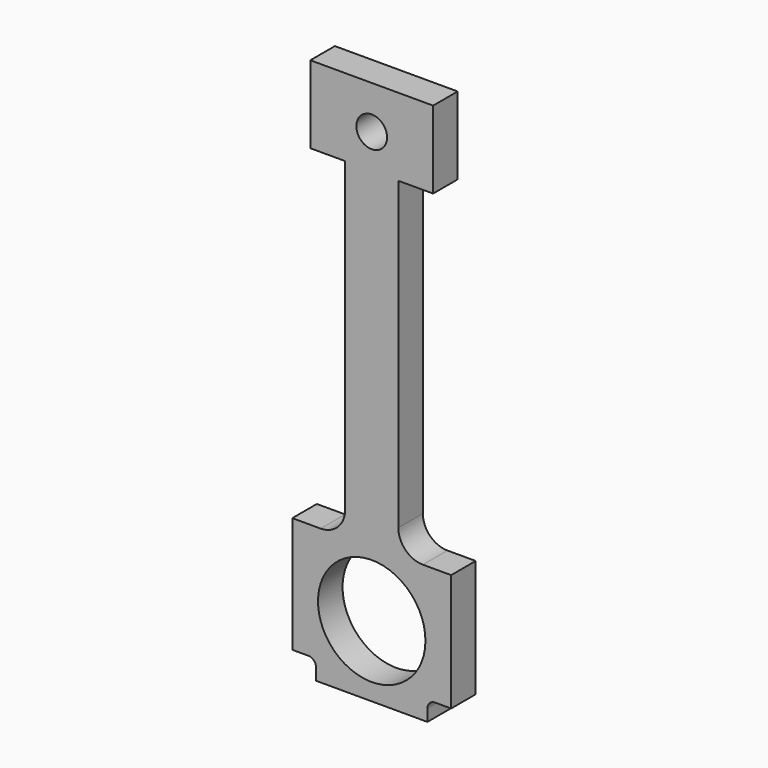
from build123d import *

# Parameters (mm, degrees)
F0_R     = 44.45
F0_R_2   = 12.7
F1_DEPTH = 25.4


with BuildPart() as f1:
    # F0 (on Front) → F1 (new body)
    with BuildSketch(Plane.XZ):
        with BuildLine():
            Line((-46.08459, -48.703328), (-46.08459, -58.516014))
            Line((-46.08459, -58.516014), (46.08459, -58.516014))
            Line((46.08459, -58.516014), (46.08459, -48.703328))
            ThreePointArc((46.08459, -48.703328), (47.944462, -44.2132), (52.43459, -42.353328))
            Line((52.43459, -42.353328), (65.728895, -42.353328))
            Line((65.728895, -42.353328), (65.728895, 54.819994))
            Line((65.728895, 54.819994), (42.319705, 54.819994))
            ThreePointArc((42.319705, 54.819994), (27.951295, 60.771584), (21.999705, 75.139994))
            Line((21.999705, 75.139994), (21.999705, 327.922707))
            Line((21.999705, 327.922707), (50.8, 327.922707))
            Line((50.8, 327.922707), (50.8, 392.02783))
            Line((50.8, 392.02783), (-50.8, 392.02783))
            Line((-50.8, 392.02783), (-50.8, 327.922707))
            Line((-50.8, 327.922707), (-21.999705, 327.922707))
            Line((-21.999705, 327.922707), (-21.999705, 321.452414))
            Line((-21.999705, 321.452414), (-21.999705, 73.922707))
            ThreePointArc((-21.999705, 73.922707), (-27.951295, 59.554297), (-42.319705, 53.602707))
            Line((-42.319705, 53.602707), (-65.728895, 53.602707))
            Line((-65.728895, 53.602707), (-65.728895, -42.353328))
            Line((-65.728895, -42.353328), (-52.43459, -42.353328))
            ThreePointArc((-52.43459, -42.353328), (-47.944462, -44.2132), (-46.08459, -48.703328))
        make_face()
        Circle(F0_R, mode=Mode.SUBTRACT)
        with Locations((0, 356.401086)):
            Circle(F0_R_2, mode=Mode.SUBTRACT)
    extrude(amount=F1_DEPTH)


solid = f1.part
